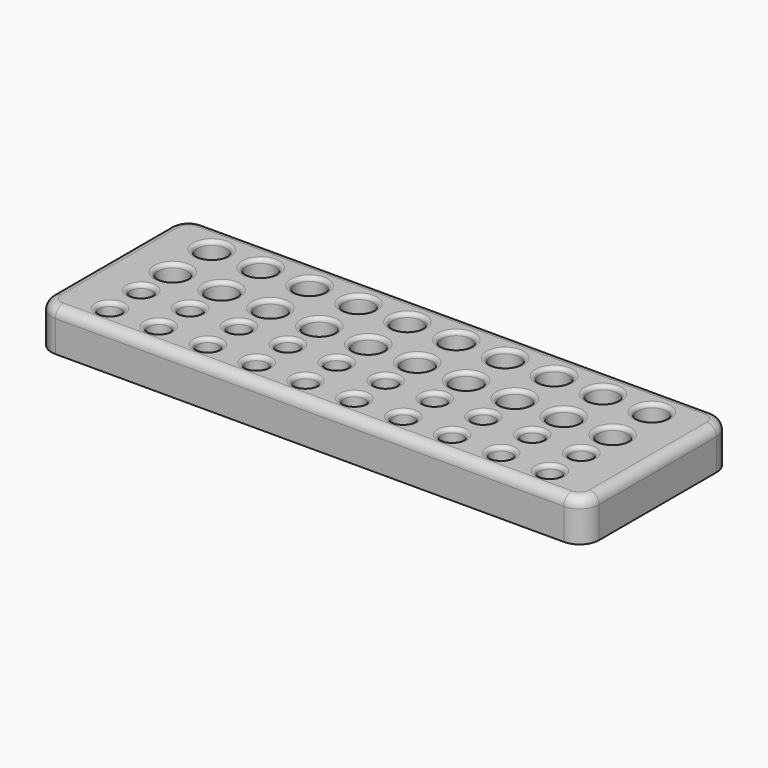
from build123d import *

# Parameters (mm, degrees)
F1_DEPTH = 21
F3_START = 5
F2_R     = 7.5
F3_DEPTH = 17
F2_R_2   = 5.5
F4_R     = 5
F6_R     = 2


with BuildPart() as f1:
    # F0 (on Top) → F1 (new body)
    with BuildSketch(Plane.XY):
        with BuildLine():
            Line((126.8207076937, 16.9342333724), (-133.1792923063, 16.9342333724))
            ThreePointArc((-133.1792923063, 16.9342333724), (-140.2503601182, 14.0053011843), (-143.1792923063, 6.9342333724))
            Line((-143.1792923063, 6.9342333724), (-143.1792923063, -68.0657666276))
            ThreePointArc((-143.1792923063, -68.0657666276), (-140.2503601182, -75.1368344395), (-133.1792923063, -78.0657666276))
            Line((-133.1792923063, -78.0657666276), (126.8207076937, -78.0657666276))
            ThreePointArc((126.8207076937, -78.0657666276), (133.8917755056, -75.1368344395), (136.8207076937, -68.0657666276))
            Line((136.8207076937, -68.0657666276), (136.8207076937, 6.9342333724))
            ThreePointArc((136.8207076937, 6.9342333724), (133.8917755056, 14.0053011843), (126.8207076937, 16.9342333724))
        make_face()
    extrude(amount=F1_DEPTH)

    # F4
    f4_edges = [f1.edges().sort_by_distance(p)[0] for p in [
        (-3.179292, 16.934233, 21),
        (-140.25036, 14.005301, 21),
        (-143.179292, -30.565767, 21),
        (-140.25036, -75.136834, 21),
        (-3.179292, -78.065767, 21),
        (133.891776, -75.136834, 21),
        (136.820708, -30.565767, 21),
        (133.891776, 14.005301, 21),
    ]]
    fillet(f4_edges, radius=F4_R)


with BuildPart() as f3:
    # F2 (on Top) → F3 (new body)
    with BuildSketch(Plane.XY.offset(F3_START)):
        with Locations((-115.6792923063, 0)):
            Circle(F2_R)
    extrude(amount=F3_DEPTH)


with BuildPart() as f3b:
    # F2 (on Top) → F3, piece 2 (new body)
    with BuildSketch(Plane.XY.offset(F3_START)):
        with Locations((-115.6792923063, -25)):
            Circle(F2_R)
    extrude(amount=F3_DEPTH)


with BuildPart() as f3c:
    # F2 (on Top) → F3, piece 3 (new body)
    with BuildSketch(Plane.XY.offset(F3_START)):
        with Locations((-90.6792923063, 0)):
            Circle(F2_R)
    extrude(amount=F3_DEPTH)


with BuildPart() as f3d:
    # F2 (on Top) → F3, piece 4 (new body)
    with BuildSketch(Plane.XY.offset(F3_START)):
        with Locations((-90.6792923063, -25)):
            Circle(F2_R)
    extrude(amount=F3_DEPTH)


with BuildPart() as f3e:
    # F2 (on Top) → F3, piece 5 (new body)
    with BuildSketch(Plane.XY.offset(F3_START)):
        with Locations((-65.6792923063, 0)):
            Circle(F2_R)
    extrude(amount=F3_DEPTH)


with BuildPart() as f3f:
    # F2 (on Top) → F3, piece 6 (new body)
    with BuildSketch(Plane.XY.offset(F3_START)):
        with Locations((-65.6792923063, -25)):
            Circle(F2_R)
    extrude(amount=F3_DEPTH)


with BuildPart() as f3g:
    # F2 (on Top) → F3, piece 7 (new body)
    with BuildSketch(Plane.XY.offset(F3_START)):
        with Locations((-40.6792923063, 0)):
            Circle(F2_R)
    extrude(amount=F3_DEPTH)


with BuildPart() as f3h:
    # F2 (on Top) → F3, piece 8 (new body)
    with BuildSketch(Plane.XY.offset(F3_START)):
        with Locations((-40.6792923063, -25)):
            Circle(F2_R)
    extrude(amount=F3_DEPTH)


with BuildPart() as f3i:
    # F2 (on Top) → F3, piece 9 (new body)
    with BuildSketch(Plane.XY.offset(F3_START)):
        with Locations((-15.6792923063, 0)):
            Circle(F2_R)
    extrude(amount=F3_DEPTH)


with BuildPart() as f3j:
    # F2 (on Top) → F3, piece 10 (new body)
    with BuildSketch(Plane.XY.offset(F3_START)):
        with Locations((-15.6792923063, -25)):
            Circle(F2_R)
    extrude(amount=F3_DEPTH)


with BuildPart() as f3k:
    # F2 (on Top) → F3, piece 11 (new body)
    with BuildSketch(Plane.XY.offset(F3_START)):
        with Locations((9.3207076937, 0)):
            Circle(F2_R)
    extrude(amount=F3_DEPTH)


with BuildPart() as f3l:
    # F2 (on Top) → F3, piece 12 (new body)
    with BuildSketch(Plane.XY.offset(F3_START)):
        with Locations((9.3207076937, -25)):
            Circle(F2_R)
    extrude(amount=F3_DEPTH)


with BuildPart() as f3m:
    # F2 (on Top) → F3, piece 13 (new body)
    with BuildSketch(Plane.XY.offset(F3_START)):
        with Locations((34.3207076937, 0)):
            Circle(F2_R)
    extrude(amount=F3_DEPTH)


with BuildPart() as f3n:
    # F2 (on Top) → F3, piece 14 (new body)
    with BuildSketch(Plane.XY.offset(F3_START)):
        with Locations((34.3207076937, -25)):
            Circle(F2_R)
    extrude(amount=F3_DEPTH)


with BuildPart() as f3o:
    # F2 (on Top) → F3, piece 15 (new body)
    with BuildSketch(Plane.XY.offset(F3_START)):
        with Locations((59.3207076937, 0)):
            Circle(F2_R)
    extrude(amount=F3_DEPTH)


with BuildPart() as f3p:
    # F2 (on Top) → F3, piece 16 (new body)
    with BuildSketch(Plane.XY.offset(F3_START)):
        with Locations((59.3207076937, -25)):
            Circle(F2_R)
    extrude(amount=F3_DEPTH)


with BuildPart() as f3q:
    # F2 (on Top) → F3, piece 17 (new body)
    with BuildSketch(Plane.XY.offset(F3_START)):
        with Locations((84.3207076937, 0)):
            Circle(F2_R)
    extrude(amount=F3_DEPTH)


with BuildPart() as f3r:
    # F2 (on Top) → F3, piece 18 (new body)
    with BuildSketch(Plane.XY.offset(F3_START)):
        with Locations((84.3207076937, -25)):
            Circle(F2_R)
    extrude(amount=F3_DEPTH)


with BuildPart() as f3s:
    # F2 (on Top) → F3, piece 19 (new body)
    with BuildSketch(Plane.XY.offset(F3_START)):
        with Locations((109.3207076937, 0)):
            Circle(F2_R)
    extrude(amount=F3_DEPTH)


with BuildPart() as f3t:
    # F2 (on Top) → F3, piece 20 (new body)
    with BuildSketch(Plane.XY.offset(F3_START)):
        with Locations((109.3207076937, -25)):
            Circle(F2_R)
    extrude(amount=F3_DEPTH)


with BuildPart() as f3u:
    # F2 (on Top) → F3, piece 21 (new body)
    with BuildSketch(Plane.XY.offset(F3_START)):
        with Locations((-115.6792923063, -45.1254658401)):
            Circle(F2_R_2)
    extrude(amount=F3_DEPTH)


with BuildPart() as f3v:
    # F2 (on Top) → F3, piece 22 (new body)
    with BuildSketch(Plane.XY.offset(F3_START)):
        with Locations((-115.6792923063, -65.1254658401)):
            Circle(F2_R_2)
    extrude(amount=F3_DEPTH)


with BuildPart() as f3w:
    # F2 (on Top) → F3, piece 23 (new body)
    with BuildSketch(Plane.XY.offset(F3_START)):
        with Locations((-90.6792923063, -45.1254658401)):
            Circle(F2_R_2)
    extrude(amount=F3_DEPTH)


with BuildPart() as f3x:
    # F2 (on Top) → F3, piece 24 (new body)
    with BuildSketch(Plane.XY.offset(F3_START)):
        with Locations((-90.6792923063, -65.1254658401)):
            Circle(F2_R_2)
    extrude(amount=F3_DEPTH)


with BuildPart() as f3y:
    # F2 (on Top) → F3, piece 25 (new body)
    with BuildSketch(Plane.XY.offset(F3_START)):
        with Locations((-65.6792923063, -45.1254658401)):
            Circle(F2_R_2)
    extrude(amount=F3_DEPTH)


with BuildPart() as f3z:
    # F2 (on Top) → F3, piece 26 (new body)
    with BuildSketch(Plane.XY.offset(F3_START)):
        with Locations((-65.6792923063, -65.1254658401)):
            Circle(F2_R_2)
    extrude(amount=F3_DEPTH)


with BuildPart() as f3ba:
    # F2 (on Top) → F3, piece 27 (new body)
    with BuildSketch(Plane.XY.offset(F3_START)):
        with Locations((-40.6792923063, -45.1254658401)):
            Circle(F2_R_2)
    extrude(amount=F3_DEPTH)


with BuildPart() as f3bb:
    # F2 (on Top) → F3, piece 28 (new body)
    with BuildSketch(Plane.XY.offset(F3_START)):
        with Locations((-40.6792923063, -65.1254658401)):
            Circle(F2_R_2)
    extrude(amount=F3_DEPTH)


with BuildPart() as f3bc:
    # F2 (on Top) → F3, piece 29 (new body)
    with BuildSketch(Plane.XY.offset(F3_START)):
        with Locations((-15.6792923063, -45.1254658401)):
            Circle(F2_R_2)
    extrude(amount=F3_DEPTH)


with BuildPart() as f3bd:
    # F2 (on Top) → F3, piece 30 (new body)
    with BuildSketch(Plane.XY.offset(F3_START)):
        with Locations((-15.6792923063, -65.1254658401)):
            Circle(F2_R_2)
    extrude(amount=F3_DEPTH)


with BuildPart() as f3be:
    # F2 (on Top) → F3, piece 31 (new body)
    with BuildSketch(Plane.XY.offset(F3_START)):
        with Locations((9.3207076937, -45.1254658401)):
            Circle(F2_R_2)
    extrude(amount=F3_DEPTH)


with BuildPart() as f3bf:
    # F2 (on Top) → F3, piece 32 (new body)
    with BuildSketch(Plane.XY.offset(F3_START)):
        with Locations((9.3207076937, -65.1254658401)):
            Circle(F2_R_2)
    extrude(amount=F3_DEPTH)


with BuildPart() as f3bg:
    # F2 (on Top) → F3, piece 33 (new body)
    with BuildSketch(Plane.XY.offset(F3_START)):
        with Locations((34.3207076937, -45.1254658401)):
            Circle(F2_R_2)
    extrude(amount=F3_DEPTH)


with BuildPart() as f3bh:
    # F2 (on Top) → F3, piece 34 (new body)
    with BuildSketch(Plane.XY.offset(F3_START)):
        with Locations((34.3207076937, -65.1254658401)):
            Circle(F2_R_2)
    extrude(amount=F3_DEPTH)


with BuildPart() as f3bi:
    # F2 (on Top) → F3, piece 35 (new body)
    with BuildSketch(Plane.XY.offset(F3_START)):
        with Locations((59.3207076937, -45.1254658401)):
            Circle(F2_R_2)
    extrude(amount=F3_DEPTH)


with BuildPart() as f3bj:
    # F2 (on Top) → F3, piece 36 (new body)
    with BuildSketch(Plane.XY.offset(F3_START)):
        with Locations((59.3207076937, -65.1254658401)):
            Circle(F2_R_2)
    extrude(amount=F3_DEPTH)


with BuildPart() as f3bk:
    # F2 (on Top) → F3, piece 37 (new body)
    with BuildSketch(Plane.XY.offset(F3_START)):
        with Locations((84.3207076937, -45.1254658401)):
            Circle(F2_R_2)
    extrude(amount=F3_DEPTH)


with BuildPart() as f3bl:
    # F2 (on Top) → F3, piece 38 (new body)
    with BuildSketch(Plane.XY.offset(F3_START)):
        with Locations((84.3207076937, -65.1254658401)):
            Circle(F2_R_2)
    extrude(amount=F3_DEPTH)


with BuildPart() as f3bm:
    # F2 (on Top) → F3, piece 39 (new body)
    with BuildSketch(Plane.XY.offset(F3_START)):
        with Locations((109.3207076937, -45.1254658401)):
            Circle(F2_R_2)
    extrude(amount=F3_DEPTH)


with BuildPart() as f3bn:
    # F2 (on Top) → F3, piece 40 (new body)
    with BuildSketch(Plane.XY.offset(F3_START)):
        with Locations((109.3207076937, -65.1254658401)):
            Circle(F2_R_2)
    extrude(amount=F3_DEPTH)


with BuildPart() as f1_1:
    add(f1.part)

    # F5: cut F3, F3b, F3c, F3d, F3e, F3f, F3g, F3h, F3i, F3j, F3k, F3l, F3m, F3n, F3o, F3p, F3q, F3r, F3s, F3t, F3u, F3v, F3w, F3x, F3y, F3z, F3ba, F3bb, F3bc, F3bd, F3be, F3bf, F3bg, F3bh, F3bi, F3bj, F3bk, F3bl, F3bm, F3bn
    add(f3.part, mode=Mode.SUBTRACT)
    add(f3b.part, mode=Mode.SUBTRACT)
    add(f3c.part, mode=Mode.SUBTRACT)
    add(f3d.part, mode=Mode.SUBTRACT)
    add(f3e.part, mode=Mode.SUBTRACT)
    add(f3f.part, mode=Mode.SUBTRACT)
    add(f3g.part, mode=Mode.SUBTRACT)
    add(f3h.part, mode=Mode.SUBTRACT)
    add(f3i.part, mode=Mode.SUBTRACT)
    add(f3j.part, mode=Mode.SUBTRACT)
    add(f3k.part, mode=Mode.SUBTRACT)
    add(f3l.part, mode=Mode.SUBTRACT)
    add(f3m.part, mode=Mode.SUBTRACT)
    add(f3n.part, mode=Mode.SUBTRACT)
    add(f3o.part, mode=Mode.SUBTRACT)
    add(f3p.part, mode=Mode.SUBTRACT)
    add(f3q.part, mode=Mode.SUBTRACT)
    add(f3r.part, mode=Mode.SUBTRACT)
    add(f3s.part, mode=Mode.SUBTRACT)
    add(f3t.part, mode=Mode.SUBTRACT)
    add(f3u.part, mode=Mode.SUBTRACT)
    add(f3v.part, mode=Mode.SUBTRACT)
    add(f3w.part, mode=Mode.SUBTRACT)
    add(f3x.part, mode=Mode.SUBTRACT)
    add(f3y.part, mode=Mode.SUBTRACT)
    add(f3z.part, mode=Mode.SUBTRACT)
    add(f3ba.part, mode=Mode.SUBTRACT)
    add(f3bb.part, mode=Mode.SUBTRACT)
    add(f3bc.part, mode=Mode.SUBTRACT)
    add(f3bd.part, mode=Mode.SUBTRACT)
    add(f3be.part, mode=Mode.SUBTRACT)
    add(f3bf.part, mode=Mode.SUBTRACT)
    add(f3bg.part, mode=Mode.SUBTRACT)
    add(f3bh.part, mode=Mode.SUBTRACT)
    add(f3bi.part, mode=Mode.SUBTRACT)
    add(f3bj.part, mode=Mode.SUBTRACT)
    add(f3bk.part, mode=Mode.SUBTRACT)
    add(f3bl.part, mode=Mode.SUBTRACT)
    add(f3bm.part, mode=Mode.SUBTRACT)
    add(f3bn.part, mode=Mode.SUBTRACT)

    # F6
    f6_edges = [f1_1.edges().sort_by_distance(p)[0] for p in [
        (-3.179292, 11.934233, 21),
        (130.356242, 10.469767, 21),
        (-136.714826, 10.469767, 21),
        (131.820708, -30.565767, 21),
        (-138.179292, -30.565767, 21),
        (130.356242, -71.601301, 21),
        (-136.714826, -71.601301, 21),
        (-3.179292, -73.065767, 21),
        (-121.179292, -65.125466, 21),
        (-96.179292, -65.125466, 21),
        (-71.179292, -65.125466, 21),
        (-46.179292, -65.125466, 21),
        (-21.179292, -65.125466, 21),
        (-121.179292, -45.125466, 21),
        (-96.179292, -45.125466, 21),
        (-71.179292, -45.125466, 21),
        (-46.179292, -45.125466, 21),
        (-21.179292, -45.125466, 21),
        (3.820708, -65.125466, 21),
        (28.820708, -65.125466, 21),
        (53.820708, -65.125466, 21),
        (78.820708, -65.125466, 21),
        (103.820708, -65.125466, 21),
        (3.820708, -45.125466, 21),
        (28.820708, -45.125466, 21),
        (53.820708, -45.125466, 21),
        (78.820708, -45.125466, 21),
        (103.820708, -45.125466, 21),
        (-123.179292, -25, 21),
        (-98.179292, -25, 21),
        (-73.179292, -25, 21),
        (-48.179292, -25, 21),
        (-23.179292, -25, 21),
        (-123.179292, 0, 21),
        (-98.179292, 0, 21),
        (-73.179292, 0, 21),
        (-48.179292, 0, 21),
        (-23.179292, 0, 21),
        (1.820708, -25, 21),
        (26.820708, -25, 21),
        (51.820708, -25, 21),
        (76.820708, -25, 21),
        (101.820708, -25, 21),
        (1.820708, 0, 21),
        (26.820708, 0, 21),
        (51.820708, 0, 21),
        (76.820708, 0, 21),
        (101.820708, 0, 21),
    ]]
    fillet(f6_edges, radius=F6_R)


solid = f1_1.part
